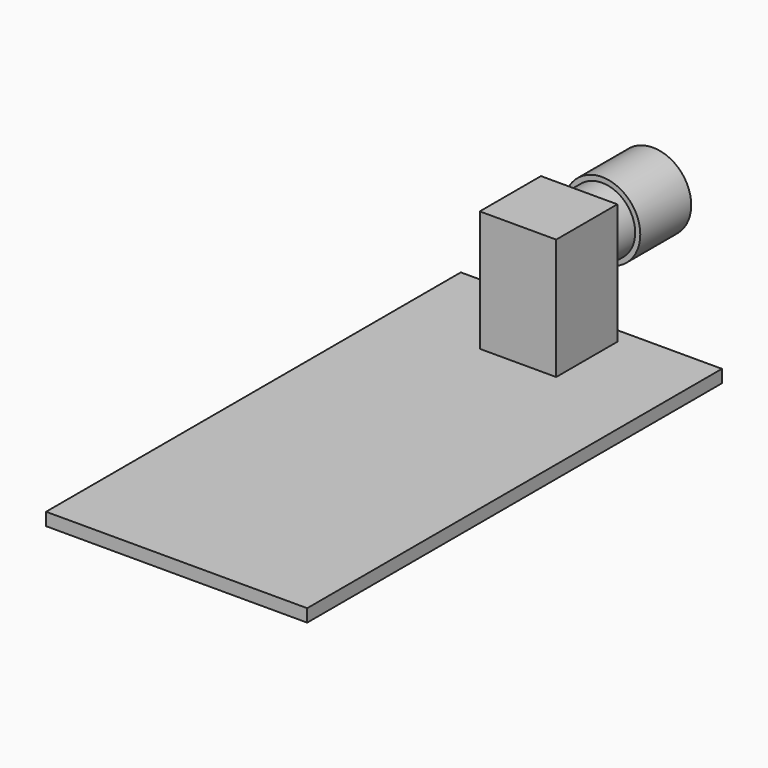
from build123d import *

# Parameters (mm, degrees)
F0_W     = 20.5
F0_H     = 40.7
F0_W_2   = 6
F0_H_2   = 6
F1_DEPTH = 1
F2_DEPTH = 10.5
F4_START = -18
F3_R     = 2.6
F4_DEPTH = 3.4
F5_START = -21.4
F3_R_2   = 3
F5_DEPTH = 5


with BuildPart() as f1:
    # F0 (on Top) → F1 (new body)
    with BuildSketch(Plane.XY):
        Rectangle(F0_W, F0_H)
        with Locations((0, 16.15)):
            Rectangle(F0_W_2, F0_H_2, mode=Mode.SUBTRACT)
        with Locations((0, 16.15)):
            Rectangle(F0_W_2, F0_H_2)
    extrude(amount=F1_DEPTH)

    # F0 (on Top) → F2 (join)
    with BuildSketch(Plane.XY):
        with Locations((0, 16.15)):
            Rectangle(F0_W_2, F0_H_2)
    extrude(amount=F2_DEPTH)


with BuildPart() as f4:
    # F3 (on Front) → F4 (new body)
    with BuildSketch(Plane.XZ.offset(F4_START)):
        with Locations((0, 7.5)):
            Circle(F3_R)
    extrude(amount=-F4_DEPTH)

    # F3 (on Front) → F5 (join)
    with BuildSketch(Plane.XZ.offset(F5_START)):
        with Locations((0, 7.5)):
            Circle(F3_R_2)
        with Locations((0, 7.5)):
            Circle(F3_R, mode=Mode.SUBTRACT)
        with Locations((0, 7.5)):
            Circle(F3_R)
    extrude(amount=-F5_DEPTH)


solid = Compound([f1.part, f4.part])
